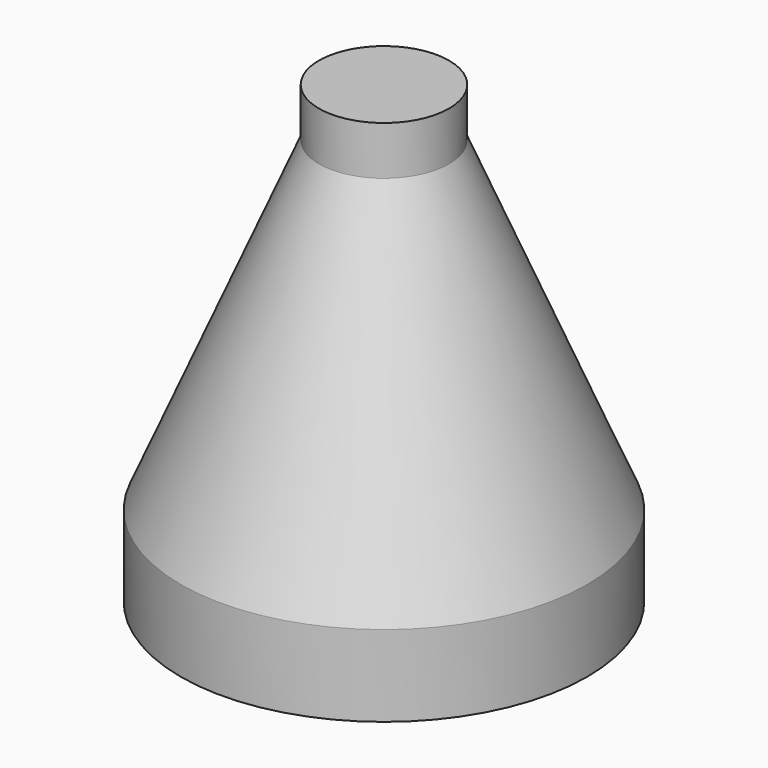
from build123d import *

# Parameters (mm, degrees)
F2_R     = 4
F3_DEPTH = 3
F4_R     = 4
F5_DEPTH = 3


with BuildPart() as f1:
    # F0 (on Front) → F1 (revolve)
    with BuildSketch(Plane.XZ):
        Polygon((0, 25), (0, 0), (12.5, 0), (12.5, 5), (4, 25), align=None)
    revolve(axis=Axis((0, 0, 12.5), (0, 0, -1)))

    # F2 (on face) → F3 (join)
    with BuildSketch(Plane.XY.offset(25)):
        Circle(F2_R)
    extrude(amount=F3_DEPTH)

    # F4 (on face) → F5 (cut)
    with BuildSketch(Plane(origin=(0, 0, 0), x_dir=(1, 0, 0), z_dir=(0, 0, -1))):
        Circle(F4_R)
    extrude(amount=-F5_DEPTH, mode=Mode.SUBTRACT)


solid = f1.part
